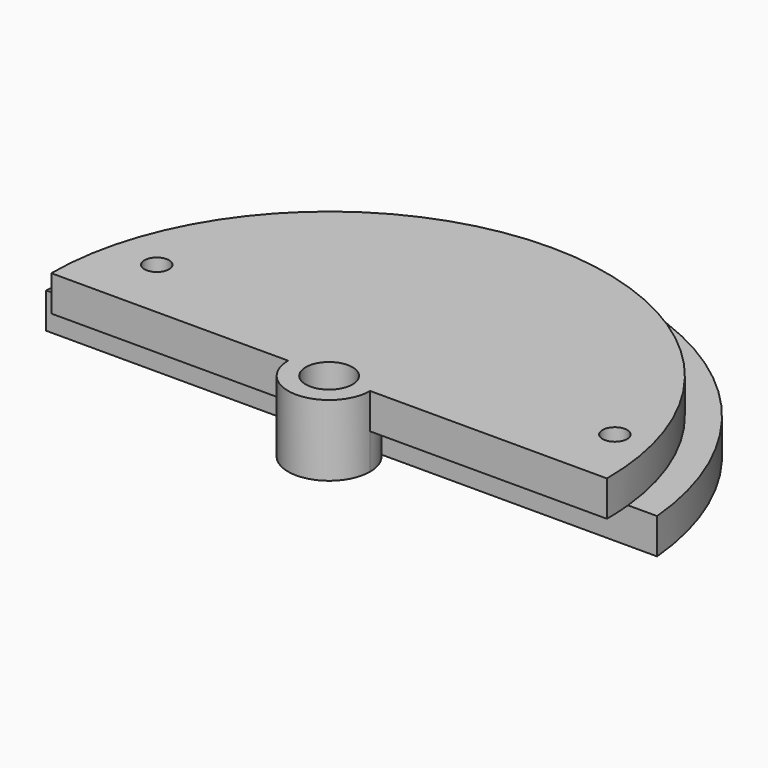
from build123d import *

# Parameters (mm, degrees)
F1_DEPTH        = 12.7
F3_DEPTH        = 25.4
F4_W            = 242.7691146731
F4_H            = 30.0364848226
F5_DEPTH        = 12.7
F6_R            = 14.6387815084
F7_DEPTH        = 25.4
F8_R            = 8.3487757397
F9_DEPTH        = 25.4
F11_DEPTH       = 5.08
F13_DEPTH       = 5.08
F15_D           = 8.8
F15_CSINK_D     = 17.92
F15_CSINK_ANGLE = 90


with BuildPart() as f1:
    # F0 (on Top) → F1 (new body)
    with BuildSketch(Plane.XY):
        with BuildLine():
            Line((-109.5926865071, 0), (109.5926865071, 0))
            ThreePointArc((109.5926865071, 0), (0, 109.5926865071), (-109.5926865071, 0))
        make_face()
    extrude(amount=F1_DEPTH)

    # F2 (on Top) → F3 (join)
    with BuildSketch(Plane.XY):
        with BuildLine():
            Line((-99.2360358279, 0), (99.2360358279, 0))
            ThreePointArc((99.2360358279, 0), (0, 99.2360358279), (-99.2360358279, 0))
        make_face()
    extrude(amount=F3_DEPTH)

    # F4 (on Top) → F5 (cut)
    with BuildSketch(Plane.XY):
        with Locations((-4.4899918139, -4.9826959148)):
            Rectangle(F4_W, F4_H)
    extrude(amount=F5_DEPTH, mode=Mode.SUBTRACT)

    # F6 (on Top) → F7 (join)
    with BuildSketch(Plane.XY):
        Circle(F6_R)
    extrude(amount=F7_DEPTH)

    # F8 (on Top) → F9 (cut)
    with BuildSketch(Plane.XY):
        Circle(F8_R)
    extrude(amount=F9_DEPTH, mode=Mode.SUBTRACT)

    # F10 (on Top) → F11 (cut)
    with BuildSketch(Plane.XY):
        with BuildLine():
            ThreePointArc((81.0422290099, 30.3221999213), (83.5344690722, 31.6522479843), (83.8168430896, 34.4630402733))
            ThreePointArc((83.8168430896, 34.4630402733), (71.7577369395, 55.3515268057), (54.6157974615, 72.3192851046))
            ThreePointArc((54.6157974615, 72.3192851046), (52.4026696923, 72.89779249), (50.4251048932, 71.7480782719))
            Line((50.4251048932, 71.7480782719), (22.4235640904, 35.1450000601))
            ThreePointArc((22.4235640904, 35.1450000601), (22.1166466893, 31.9933659242), (24.806293545, 30.3221999213))
            Line((24.806293545, 30.3221999213), (81.0422290099, 30.3221999213))
        make_face()
        with BuildLine():
            ThreePointArc((-4.9650533663, 33.315884659), (-2.6194064658, 32.1600273833), (-0.2580637548, 33.2834712068))
            Line((-0.2580637548, 33.2834712068), (36.3094015687, 78.8968902074))
            ThreePointArc((36.3094015687, 78.8968902074), (36.8765863049, 81.5111398441), (35.1316920138, 83.538784685))
            ThreePointArc((35.1316920138, 83.538784685), (-1.7558791181, 90.6083948589), (-38.3418575582, 82.1149577688))
            ThreePointArc((-38.3418575582, 82.1149577688), (-39.9894725562, 80.0980697861), (-39.4389206806, 77.5526101127))
            Line((-39.4389206806, 77.5526101127), (-4.9650533663, 33.315884659))
        make_face()
        with BuildLine():
            ThreePointArc((-28.6519128364, 30.3221999213), (-25.9512730857, 32.0158519826), (-26.2999293888, 35.1845032967))
            Line((-26.2999293888, 35.1845032967), (-53.425476113, 69.442529))
            ThreePointArc((-53.425476113, 69.442529), (-55.4614488813, 70.5635354057), (-57.6870926805, 69.8939458642))
            ThreePointArc((-57.6870926805, 69.8939458642), (-70.419089982, 57.0448603864), (-80.3456057092, 41.9231197982))
            ThreePointArc((-80.3456057092, 41.9231197982), (-80.3231983412, 39.1054090847), (-77.9741099322, 37.5492023498))
            ThreePointArc((-77.9741099322, 37.5492023498), (-71.346139634, 35.2966967191), (-66.4208829403, 30.3221999213))
            Line((-66.4208829403, 30.3221999213), (-28.6519128364, 30.3221999213))
        make_face()
    extrude(amount=F11_DEPTH, mode=Mode.SUBTRACT)

    # F12 (on Top) → F13 (cut)
    with BuildSketch(Plane.XY):
        with BuildLine():
            ThreePointArc((-89.5017917801, 37.8877817543), (-64.6761122502, 72.5469175245), (-27.4057276817, 93.2468810649))
            ThreePointArc((-27.4057276817, 93.2468810649), (-25.7155974631, 98.6594259136), (-30.9120716898, 100.9285309146))
            ThreePointArc((-30.9120716898, 100.9285309146), (-70.8203505983, 78.2726163475), (-97.3429498314, 40.8224772259))
            ThreePointArc((-97.3429498314, 40.8224772259), (-94.7015703839, 35.937260015), (-89.5017917801, 37.8877817543))
        make_face()
    extrude(amount=F13_DEPTH, mode=Mode.SUBTRACT)

    # F15 (through all)
    with Locations(Plane(origin=(0, 0, 0), x_dir=(1, 0, 0), z_dir=(0, 0, -1))):
        with Locations((84.3808501959, -22.1120715141), (-79.4403954111, -22.3570616146)):
            CounterSinkHole(F15_D / 2, F15_CSINK_D / 2, counter_sink_angle=F15_CSINK_ANGLE)


solid = f1.part
